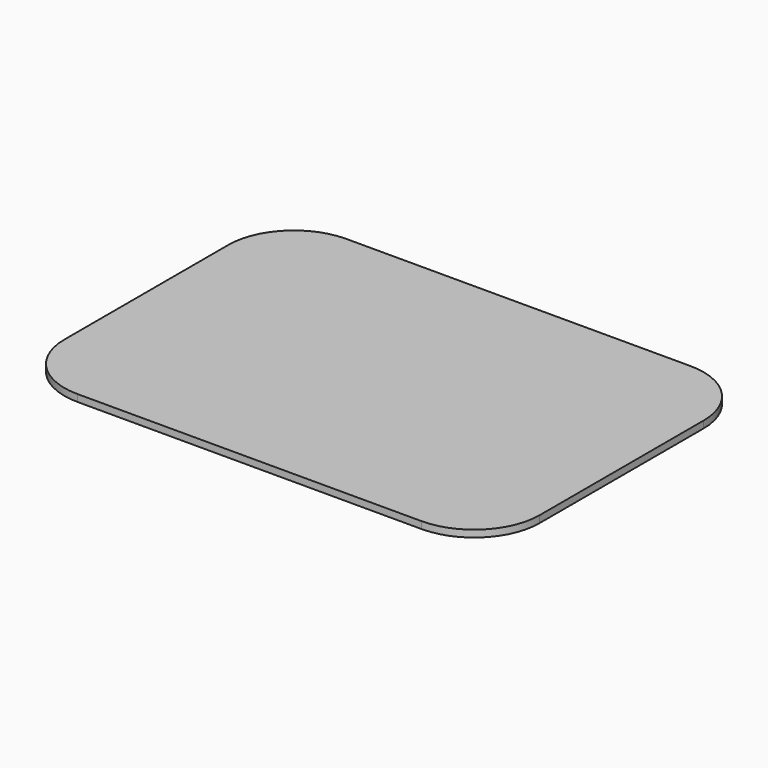
from build123d import *

# Parameters (mm, degrees)
BOX020_W     = 116
BOX020_H     = 82
BOX020_DEPTH = 1.7
FILLET_R     = 16
FILLET029_R  = 16


with BuildPart() as part:
    # Box020 → Box020 (new body)
    with BuildSketch(Plane(origin=(-5.1, -1, -12), x_dir=(1, 0, 0), z_dir=(0, 0, 1))):
        with Locations((58, 41)):
            Rectangle(BOX020_W, BOX020_H)
    extrude(amount=BOX020_DEPTH)

    # Fillet
    fillet_edges = [part.edges().sort_by_distance(p)[0] for p in [
        (110.9, 81, -11.15),
    ]]
    fillet(fillet_edges, radius=FILLET_R)

    # Fillet029
    fillet029_edges = [part.edges().sort_by_distance(p)[0] for p in [
        (110.9, -1, -11.15),
        (-5.1, -1, -11.15),
        (-5.1, 81, -11.15),
    ]]
    fillet(fillet029_edges, radius=FILLET029_R)


with BuildPart() as part_1:
    # Fillet029 placement: moved
    add(part.part.moved(Location((0, 0, 10))))


solid = part_1.part
